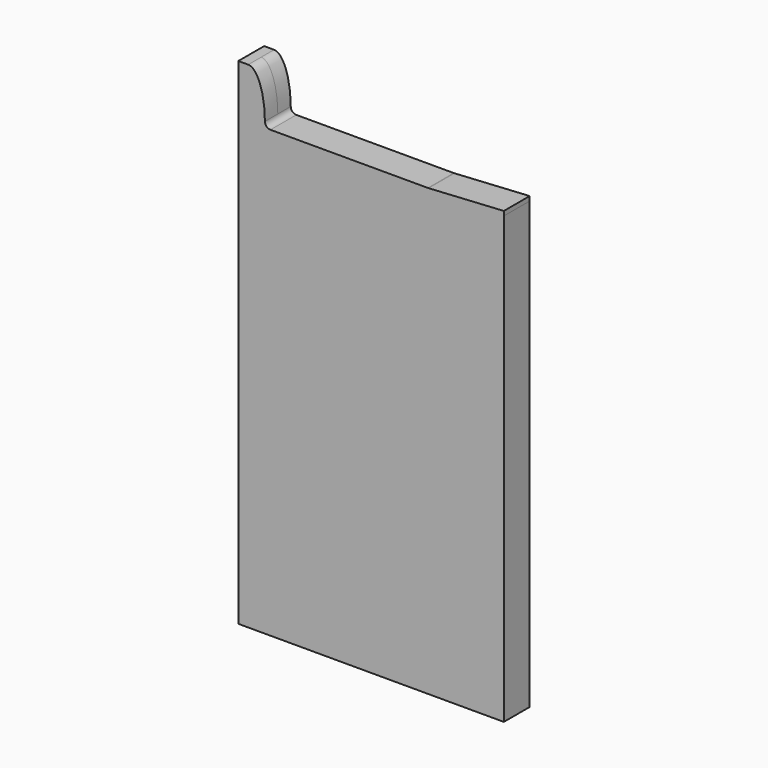
from build123d import *

# Parameters (mm, degrees)
EXTRUDE002_DEPTH = 14.5
SKETCH003_W      = 238.445661
SKETCH003_H      = 400
EXTRUDE001_DEPTH = 14.5


with BuildPart() as extrude002:
    # Sketch001 → Extrude002 (new body, symmetric)
    with BuildSketch(Plane(origin=(0, 0, 400), x_dir=(1, 0, 0), z_dir=(0, -1, 0))):
        with BuildLine():
            add(Edge.make_bspline(
                [(23.871579, 5), (23.871579, 45), (8.871579, 45)],
                knots=[4.712389, 4.712389, 4.712389, 6.283185, 6.283185, 6.283185], degree=2, weights=[1, 0.707107, 1]))
            Line((8.871579, 45), (0, 45))
            Line((0, 45), (0, 0))
            Line((0, 0), (28.871579, 0))
            ThreePointArc((28.871579, 0), (25.336045, 1.464466), (23.871579, 5))
        make_face()
        with BuildLine():
            Line((238.445661, 3.988383), (238.445661, 0))
            Line((238.445661, 0), (170.25, 0))
            ThreePointArc((170.25, 0), (170.543307, 0.004302), (170.836361, 0.017206))
            Line((170.836361, 0.017206), (238.445661, 3.988383))
        make_face()
    extrude(amount=EXTRUDE002_DEPTH, both=True)


with BuildPart() as basin_cut:
    # Sketch003 → Extrude001 (new body, symmetric)
    with BuildSketch(Plane.XZ):
        with Locations((119.222831, 200)):
            Rectangle(SKETCH003_W, SKETCH003_H)
    extrude(amount=EXTRUDE001_DEPTH, both=True)

    # Fusion: union Extrude002
    add(extrude002.part)


solid = basin_cut.part
